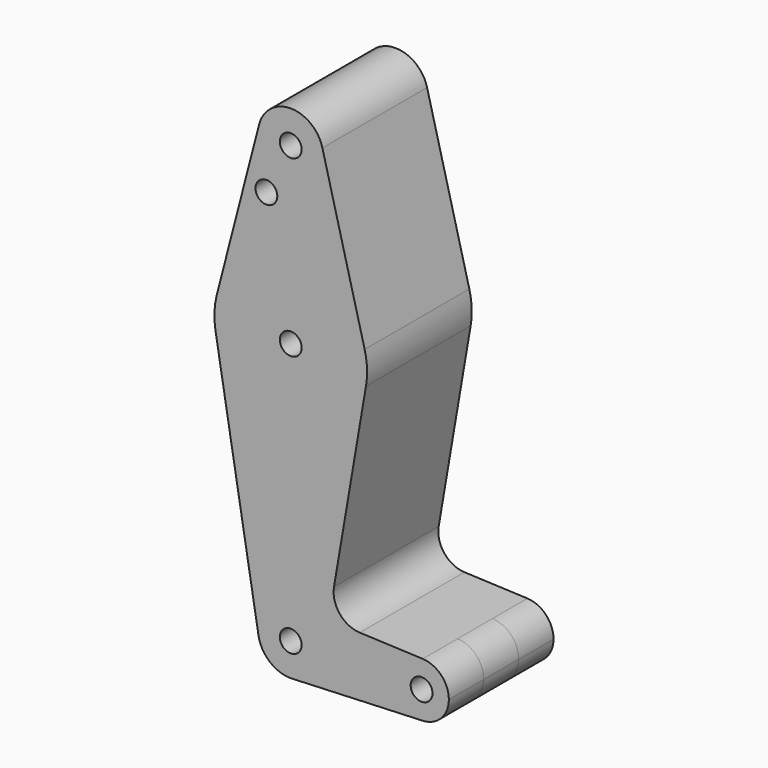
from build123d import *

# Parameters (mm, degrees)
F0_R     = 3.175
F1_DEPTH = 12.7
F2_DEPTH = 25.4


with BuildPart() as f1:
    # F0 (on Front) → F1 (new body, symmetric)
    with BuildSketch(Plane.XZ):
        with BuildLine():
            ThreePointArc((-9.2225415932, 78.58125), (-1.2001908859, 66.7509171431), (9.525, 76.2))
            ThreePointArc((9.525, 76.2), (9.4490828569, 77.4001908859), (9.2225415932, 78.58125))
            ThreePointArc((9.2225415932, 78.58125), (0, 85.725), (-9.2225415932, 78.58125))
        make_face()
        with Locations((0, 76.2)):
            Circle(F0_R, mode=Mode.SUBTRACT)
        with BuildLine():
            ThreePointArc((9.2225415932, 78.58125), (9.4490828569, 77.4001908859), (9.525, 76.2))
            ThreePointArc((9.525, 76.2), (-1.2001908859, 66.7509171431), (-9.2225415932, 78.58125))
            Line((-9.2225415932, 78.58125), (-21.5192637174, 30.95625))
            ThreePointArc((-21.5192637174, 30.95625), (0, 47.625), (21.5192637174, 30.95625))
            Line((21.5192637174, 30.95625), (9.2225415932, 78.58125))
        make_face()
        with Locations((-7.0844171569, 61.9252)):
            Circle(F0_R, mode=Mode.SUBTRACT)
        with BuildLine():
            ThreePointArc((22.225, 25.4), (22.0478599995, 28.2004454004), (21.5192637174, 30.95625))
            ThreePointArc((21.5192637174, 30.95625), (0, 47.625), (-21.5192637174, 30.95625))
            ThreePointArc((-21.5192637174, 30.95625), (-22.204821299, 26.3468558918), (-21.9141455299, 21.6958333333))
            ThreePointArc((-21.9141455299, 21.6958333333), (-0.0201347951, 3.1750091206), (21.9073979622, 21.6561330786))
            ThreePointArc((21.9073979622, 21.6561330786), (22.1454571494, 23.5213428613), (22.225, 25.4))
        make_face()
        with Locations((0, 25.4)):
            Circle(F0_R, mode=Mode.SUBTRACT)
        with BuildLine():
            ThreePointArc((21.9073979622, 21.6561330786), (-0.0201347951, 3.1750091206), (-21.9141455299, 21.6958333333))
            Line((-21.9141455299, 21.6958333333), (-9.3917766557, -52.3875))
            ThreePointArc((-9.3917766557, -52.3875), (-0.7965401292, -41.3083642704), (9.525, -50.8))
            ThreePointArc((9.525, -50.8), (7.0085890152, -57.2502174394), (0.7889779495, -60.2922673158))
            Line((0.7889779495, -60.2922673158), (38.4290236064, -58.730677759))
            ThreePointArc((38.4290236064, -58.730677759), (30.1625, -50.8), (38.4290236064, -42.869322241))
            Line((38.4290236064, -42.869322241), (20.1036312885, -42.1090484218))
            ThreePointArc((20.1036312885, -42.1090484218), (14.2515043463, -39.1649364905), (12.5965921187, -32.8264468968))
            Line((12.5965921187, -32.8264468968), (21.9073979622, 21.6561330786))
        make_face()
        with BuildLine():
            ThreePointArc((9.525, -50.8), (-0.7965401292, -41.3083642704), (-9.3917766557, -52.3875))
            ThreePointArc((-9.3917766557, -52.3875), (-6.1483610621, -58.0748389157), (0, -60.325))
            Line((0, -60.325), (0.7889779495, -60.2922673158))
            ThreePointArc((0.7889779495, -60.2922673158), (7.0085890152, -57.2502174394), (9.525, -50.8))
        make_face()
        with Locations((0, -50.8)):
            Circle(F0_R, mode=Mode.SUBTRACT)
        with BuildLine():
            Line((0.7889779495, -60.2922673158), (0, -60.325))
            ThreePointArc((0, -60.325), (0.3948283277, -60.3168133107), (0.7889779495, -60.2922673158))
        make_face()
        with BuildLine():
            ThreePointArc((46.0375, -50.8), (43.8278063482, -45.3048984826), (38.4290236064, -42.869322241))
            ThreePointArc((38.4290236064, -42.869322241), (30.1625, -50.8), (38.4290236064, -58.730677759))
            ThreePointArc((38.4290236064, -58.730677759), (43.8278063482, -56.2951015174), (46.0375, -50.8))
        make_face()
        with Locations((38.1, -50.8)):
            Circle(F0_R, mode=Mode.SUBTRACT)
    extrude(amount=F1_DEPTH, both=True)

    # F0 (on Front) → F2 (join)
    with BuildSketch(Plane.XZ):
        with BuildLine():
            ThreePointArc((-9.2225415932, 78.58125), (-1.2001908859, 66.7509171431), (9.525, 76.2))
            ThreePointArc((9.525, 76.2), (9.4490828569, 77.4001908859), (9.2225415932, 78.58125))
            ThreePointArc((9.2225415932, 78.58125), (0, 85.725), (-9.2225415932, 78.58125))
        make_face()
        with Locations((0, 76.2)):
            Circle(F0_R, mode=Mode.SUBTRACT)
        with BuildLine():
            ThreePointArc((9.2225415932, 78.58125), (9.4490828569, 77.4001908859), (9.525, 76.2))
            ThreePointArc((9.525, 76.2), (-1.2001908859, 66.7509171431), (-9.2225415932, 78.58125))
            Line((-9.2225415932, 78.58125), (-21.5192637174, 30.95625))
            ThreePointArc((-21.5192637174, 30.95625), (0, 47.625), (21.5192637174, 30.95625))
            Line((21.5192637174, 30.95625), (9.2225415932, 78.58125))
        make_face()
        with Locations((-7.0844171569, 61.9252)):
            Circle(F0_R, mode=Mode.SUBTRACT)
        with BuildLine():
            ThreePointArc((22.225, 25.4), (22.0478599995, 28.2004454004), (21.5192637174, 30.95625))
            ThreePointArc((21.5192637174, 30.95625), (0, 47.625), (-21.5192637174, 30.95625))
            ThreePointArc((-21.5192637174, 30.95625), (-22.204821299, 26.3468558918), (-21.9141455299, 21.6958333333))
            ThreePointArc((-21.9141455299, 21.6958333333), (-0.0201347951, 3.1750091206), (21.9073979622, 21.6561330786))
            ThreePointArc((21.9073979622, 21.6561330786), (22.1454571494, 23.5213428613), (22.225, 25.4))
        make_face()
        with Locations((0, 25.4)):
            Circle(F0_R, mode=Mode.SUBTRACT)
        with BuildLine():
            ThreePointArc((21.9073979622, 21.6561330786), (-0.0201347951, 3.1750091206), (-21.9141455299, 21.6958333333))
            Line((-21.9141455299, 21.6958333333), (-9.3917766557, -52.3875))
            ThreePointArc((-9.3917766557, -52.3875), (-0.7965401292, -41.3083642704), (9.525, -50.8))
            ThreePointArc((9.525, -50.8), (7.0085890152, -57.2502174394), (0.7889779495, -60.2922673158))
            Line((0.7889779495, -60.2922673158), (38.4290236064, -58.730677759))
            ThreePointArc((38.4290236064, -58.730677759), (30.1625, -50.8), (38.4290236064, -42.869322241))
            Line((38.4290236064, -42.869322241), (20.1036312885, -42.1090484218))
            ThreePointArc((20.1036312885, -42.1090484218), (14.2515043463, -39.1649364905), (12.5965921187, -32.8264468968))
            Line((12.5965921187, -32.8264468968), (21.9073979622, 21.6561330786))
        make_face()
        with BuildLine():
            ThreePointArc((9.525, -50.8), (-0.7965401292, -41.3083642704), (-9.3917766557, -52.3875))
            ThreePointArc((-9.3917766557, -52.3875), (-6.1483610621, -58.0748389157), (0, -60.325))
            Line((0, -60.325), (0.7889779495, -60.2922673158))
            ThreePointArc((0.7889779495, -60.2922673158), (7.0085890152, -57.2502174394), (9.525, -50.8))
        make_face()
        with Locations((0, -50.8)):
            Circle(F0_R, mode=Mode.SUBTRACT)
        with BuildLine():
            Line((0.7889779495, -60.2922673158), (0, -60.325))
            ThreePointArc((0, -60.325), (0.3948283277, -60.3168133107), (0.7889779495, -60.2922673158))
        make_face()
        with BuildLine():
            ThreePointArc((46.0375, -50.8), (43.8278063482, -45.3048984826), (38.4290236064, -42.869322241))
            ThreePointArc((38.4290236064, -42.869322241), (30.1625, -50.8), (38.4290236064, -58.730677759))
            ThreePointArc((38.4290236064, -58.730677759), (43.8278063482, -56.2951015174), (46.0375, -50.8))
        make_face()
        with Locations((38.1, -50.8)):
            Circle(F0_R, mode=Mode.SUBTRACT)
    extrude(amount=F2_DEPTH)


solid = f1.part
